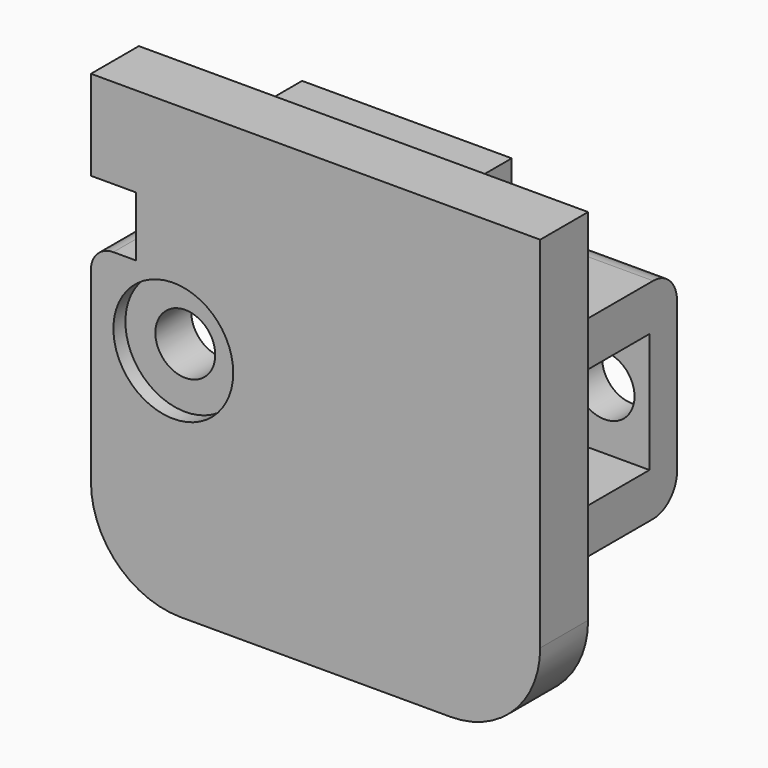
from build123d import *

# Parameters (mm, degrees)
BOX242_W          = 6
BOX242_H          = 7
BOX242_DEPTH      = 3
CYLINDER094_R     = 4
CYLINDER094_DEPTH = 5
CYLINDER095_R     = 2
CYLINDER095_DEPTH = 5
BOX229_W          = 10
BOX229_H          = 10
BOX229_DEPTH      = 4
BOX230_W          = 30
BOX230_H          = 4
BOX230_DEPTH      = 30
FILLET062_R       = 6
CYLINDER096_R     = 2
CYLINDER096_DEPTH = 5
BOX241_W          = 6
BOX241_H          = 2.3
BOX241_DEPTH      = 14
FILLET061_R       = 2
BOX235_W          = 13
BOX235_H          = 2
BOX235_DEPTH      = 1
BOX236_W          = 1
BOX236_H          = 2
BOX236_DEPTH      = 28
BOX237_W          = 2
BOX237_H          = 1
BOX237_DEPTH      = 28
BOX238_W          = 13
BOX238_H          = 2
BOX238_DEPTH      = 1
BOX239_W          = 12
BOX239_H          = 1
BOX239_DEPTH      = 2
BOX234_W          = 12
BOX234_H          = 1
BOX234_DEPTH      = 2
BOX240_W          = 6
BOX240_H          = 7
BOX240_DEPTH      = 3
FILLET063_R       = 1.5


with BuildPart() as cube230:
    # Box242 → Box242 (new body)
    with BuildSketch(Plane(origin=(110.5, 50, -16.5), x_dir=(1, 0, 0), z_dir=(0, 0, 1))):
        with Locations((3, 3.5)):
            Rectangle(BOX242_W, BOX242_H)
    extrude(amount=BOX242_DEPTH)


with BuildPart() as cylinder175:
    # Cylinder094 → Cylinder094 (new body)
    with BuildSketch(Plane(origin=(93.5, 47, -20.5), x_dir=(1, 0, 0), z_dir=(0, -1, 0))):
        Circle(CYLINDER094_R)
    extrude(amount=CYLINDER094_DEPTH)


with BuildPart() as cylinder176:
    # Cylinder095 → Cylinder095 (new body)
    with BuildSketch(Plane(origin=(93.5, 50, -20.5), x_dir=(1, 0, 0), z_dir=(0, -1, 0))):
        Circle(CYLINDER095_R)
    extrude(amount=CYLINDER095_DEPTH)


with BuildPart() as cube217:
    # Box229 → Box229 (new body)
    with BuildSketch(Plane(origin=(81, 40, -16), x_dir=(1, 0, 0), z_dir=(0, 0, 1))):
        with Locations((5, 5)):
            Rectangle(BOX229_W, BOX229_H)
    extrude(amount=BOX229_DEPTH)


with BuildPart() as fillet062:
    # Box230 → Box230 (new body)
    with BuildSketch(Plane(origin=(88, 46, -36), x_dir=(1, 0, 0), z_dir=(0, 0, 1))):
        with Locations((15, 2)):
            Rectangle(BOX230_W, BOX230_H)
    extrude(amount=BOX230_DEPTH)

    # Cut125: cut Cube217
    add(cube217.part, mode=Mode.SUBTRACT)

    # Cut127: cut Cylinder176
    add(cylinder176.part, mode=Mode.SUBTRACT)

    # Cut128: cut Cylinder175
    add(cylinder175.part, mode=Mode.SUBTRACT)

    # Fillet062
    fillet062_edges = [fillet062.edges().sort_by_distance(p)[0] for p in [
        (118, 48, -36),
        (88, 48, -36),
    ]]
    fillet(fillet062_edges, radius=FILLET062_R)


with BuildPart() as cylinder177:
    # Cylinder096 → Cylinder096 (new body)
    with BuildSketch(Plane(origin=(113.5, 60, -20.5), x_dir=(1, 0, 0), z_dir=(0, -1, 0))):
        Circle(CYLINDER096_R)
    extrude(amount=CYLINDER096_DEPTH)


with BuildPart() as fillet061:
    # Box241 → Box241 (new body)
    with BuildSketch(Plane(origin=(110.5, 57, -27.5), x_dir=(1, 0, 0), z_dir=(0, 0, 1))):
        with Locations((3, 1.15)):
            Rectangle(BOX241_W, BOX241_H)
    extrude(amount=BOX241_DEPTH)

    # Cut129: cut Cylinder177
    add(cylinder177.part, mode=Mode.SUBTRACT)

    # Fillet061
    fillet061_edges = [fillet061.edges().sort_by_distance(p)[0] for p in [
        (113.5, 59.3, -13.5),
        (113.5, 59.3, -27.5),
    ]]
    fillet(fillet061_edges, radius=FILLET061_R)


with BuildPart() as cube223:
    # Box235 → Box235 (new body)
    with BuildSketch(Plane(origin=(96.5, 51, -34.5), x_dir=(1, 0, 0), z_dir=(0, 0, 1))):
        with Locations((6.5, 1)):
            Rectangle(BOX235_W, BOX235_H)
    extrude(amount=BOX235_DEPTH)


with BuildPart() as cube224:
    # Box236 → Box236 (new body)
    with BuildSketch(Plane(origin=(109.5, 51, -34.5), x_dir=(1, 0, 0), z_dir=(0, 0, 1))):
        with Locations((0.5, 1)):
            Rectangle(BOX236_W, BOX236_H)
    extrude(amount=BOX236_DEPTH)


with BuildPart() as cube225:
    # Box237 → Box237 (new body)
    with BuildSketch(Plane(origin=(108.5, 50, -34.5), x_dir=(1, 0, 0), z_dir=(0, 0, 1))):
        with Locations((1, 0.5)):
            Rectangle(BOX237_W, BOX237_H)
    extrude(amount=BOX237_DEPTH)


with BuildPart() as cube226:
    # Box238 → Box238 (new body)
    with BuildSketch(Plane(origin=(96.5, 51, -7.5), x_dir=(1, 0, 0), z_dir=(0, 0, 1))):
        with Locations((6.5, 1)):
            Rectangle(BOX238_W, BOX238_H)
    extrude(amount=BOX238_DEPTH)


with BuildPart() as cube227:
    # Box239 → Box239 (new body)
    with BuildSketch(Plane(origin=(96.5, 50, -8.5), x_dir=(1, 0, 0), z_dir=(0, 0, 1))):
        with Locations((6, 0.5)):
            Rectangle(BOX239_W, BOX239_H)
    extrude(amount=BOX239_DEPTH)


with BuildPart() as fusion075:
    # Box234 → Box234 (new body)
    with BuildSketch(Plane(origin=(96.5, 50, -34.5), x_dir=(1, 0, 0), z_dir=(0, 0, 1))):
        with Locations((6, 0.5)):
            Rectangle(BOX234_W, BOX234_H)
    extrude(amount=BOX234_DEPTH)

    # Fusion075: union Cube223, Cube224, Cube225, Cube226, Cube227
    add(cube223.part)
    add(cube224.part)
    add(cube225.part)
    add(cube226.part)
    add(cube227.part)


with BuildPart() as fillet063:
    # Box240 → Box240 (new body)
    with BuildSketch(Plane(origin=(110.5, 50, -27.5), x_dir=(1, 0, 0), z_dir=(0, 0, 1))):
        with Locations((3, 3.5)):
            Rectangle(BOX240_W, BOX240_H)
    extrude(amount=BOX240_DEPTH)

    # Fusion076: union Cube230, Fillet062, Fillet061, Fusion075
    add(cube230.part)
    add(fillet062.part)
    add(fillet061.part)
    add(fusion075.part)

    # Fillet063
    fillet063_edges = [fillet063.edges().sort_by_distance(p)[0] for p in [
        (88, 48, -16),
    ]]
    fillet(fillet063_edges, radius=FILLET063_R)


solid = fillet063.part
